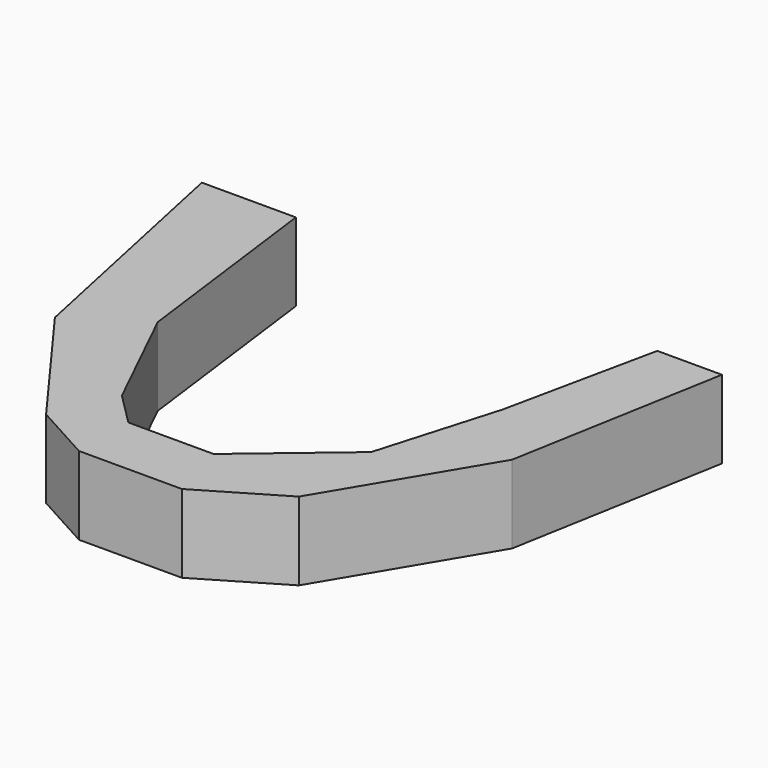
from build123d import *

# Parameters (mm, degrees)
F1_DEPTH = 5.08


with BuildPart() as f1:
    # F0 (on Top) → F1 (new body)
    with BuildSketch(Plane.XY):
        Polygon((-28.643198, 37.427112), (-32.842685, 37.427112), (-34.944702, 27.49747), (-37.236158, 19.66833), (-43.346707, 14.512554), (-48.884392, 14.512554), (-50.984893, 16.613055), (-54.613031, 24.060287), (-56.331623, 37.427112), (-62.442172, 37.427112), (-59.004989, 21.195969), (-52.703485, 12.603007), (-48.884392, 10.502506), (-42.200979, 10.502506), (-37.042172, 13.557781), (-31.125609, 23.487423), align=None)
    extrude(amount=F1_DEPTH)


solid = f1.part
